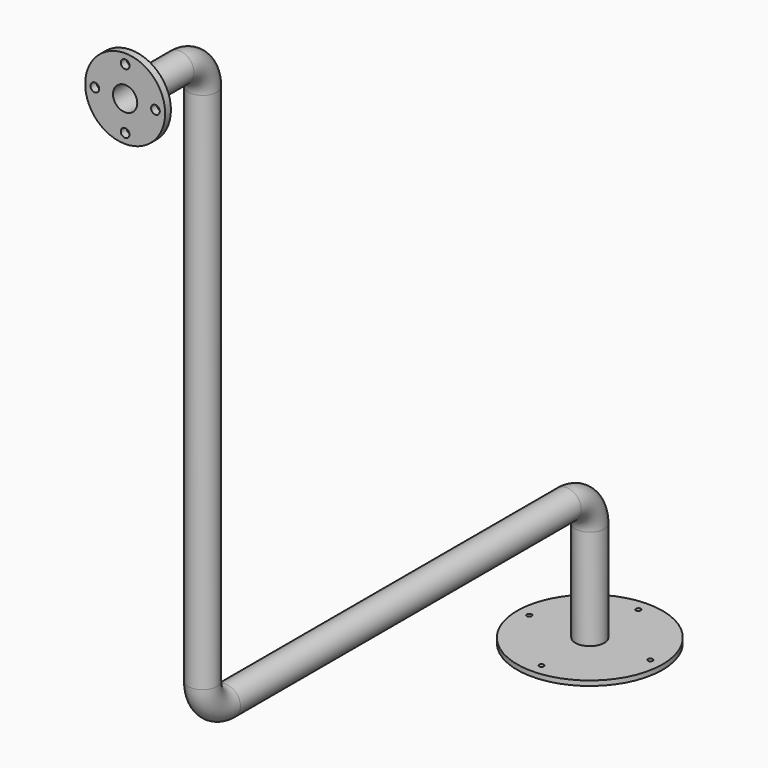
from build123d import *

# Parameters (mm, degrees)
F0_R     = 30
F0_R_2   = 25
F0_R_3   = 82.5
F0_R_4   = 9
F3_DEPTH = 15
F4_R     = 150
F4_R_2   = 5
F4_R_3   = 30
F5_DEPTH = 10


with BuildPart() as f2:
    # F2: sweep along a path in F1
    with BuildLine(Plane.YZ) as f2_path:
        Line((0, 0), (140, 0))
        ThreePointArc((140, 0), (182.4264068712, -17.5735931288), (200, -60))
        Line((200, -60), (200, -1140))
        ThreePointArc((200, -1140), (217.5735931288, -1182.4264068712), (260, -1200))
        Line((260, -1200), (1139.2055177689, -1200))
        ThreePointArc((1139.2055177689, -1200), (1181.6319246401, -1217.5735931288), (1199.2055177689, -1260))
        Line((1199.2055177689, -1260), (1199.2055177689, -1476.99706))
    # F0 (on Front) → F2 (sweep)
    with BuildSketch(Plane.XZ):
        Circle(F0_R)
        Circle(F0_R_2, mode=Mode.SUBTRACT)
    sweep(path=f2_path.line)

    # F0 (on Front) → F3 (join)
    with BuildSketch(Plane.XZ):
        Circle(F0_R_3)
        with Locations((0, -62.5)):
            Circle(F0_R_4, mode=Mode.SUBTRACT)
        with Locations((-62.5, 0)):
            Circle(F0_R_4, mode=Mode.SUBTRACT)
        Circle(F0_R, mode=Mode.SUBTRACT)
        with Locations((62.5, 0)):
            Circle(F0_R_4, mode=Mode.SUBTRACT)
        with Locations((0, 62.5)):
            Circle(F0_R_4, mode=Mode.SUBTRACT)
    extrude(amount=-F3_DEPTH)

    # F4 (on face) → F5 (join)
    with BuildSketch(Plane(origin=(0, 0, -1476.99706), x_dir=(1, 0, 0), z_dir=(0, 0, -1))):
        with Locations((0, -1199.2055177689)):
            Circle(F4_R)
        with Locations((0, -1324.2055177689)):
            Circle(F4_R_2, mode=Mode.SUBTRACT)
        with Locations((-125, -1199.2055177689)):
            Circle(F4_R_2, mode=Mode.SUBTRACT)
        with Locations((0, -1199.2055177689)):
            Circle(F4_R_3, mode=Mode.SUBTRACT)
        with Locations((125, -1199.2055177689)):
            Circle(F4_R_2, mode=Mode.SUBTRACT)
        with Locations((0, -1074.2055177689)):
            Circle(F4_R_2, mode=Mode.SUBTRACT)
    extrude(amount=-F5_DEPTH)


solid = f2.part
